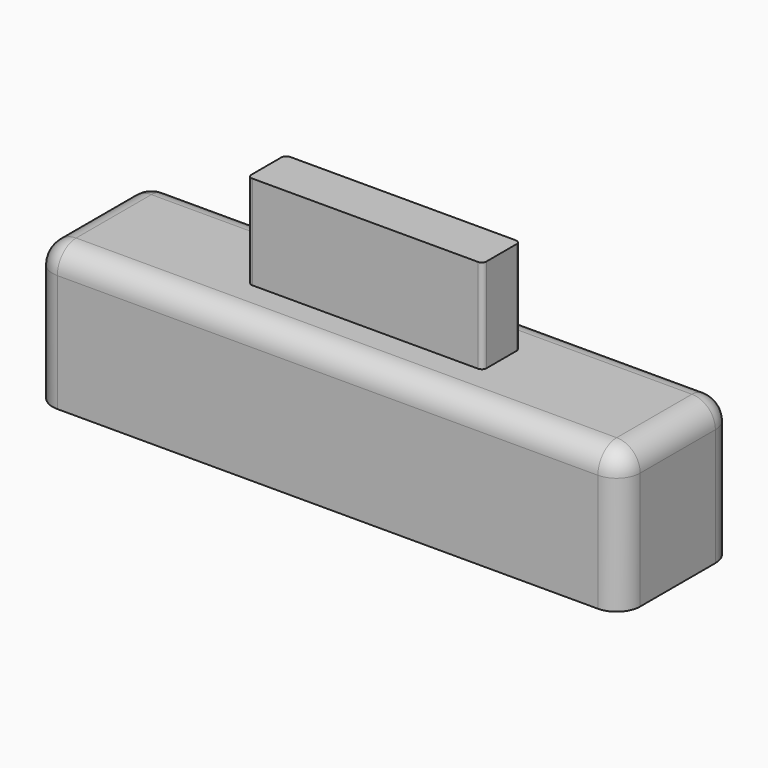
from build123d import *

# Parameters (mm, degrees)
SKETCH_W     = 10
SKETCH_H     = 2
PAD_DEPTH    = 4
SKETCH001_W  = 25
SKETCH001_H  = 6
PAD001_DEPTH = 6
FILLET_R     = 1
FILLET001_R  = 0.2


with BuildPart() as part:
    # Sketch → Pad (new body)
    with BuildSketch(Plane.XY):
        with Locations((5, 1)):
            Rectangle(SKETCH_W, SKETCH_H)
    extrude(amount=PAD_DEPTH)

    # Sketch001 → Pad001 (join)
    with BuildSketch(Plane.XY):
        with Locations((5, 1)):
            Rectangle(SKETCH001_W, SKETCH001_H)
    extrude(amount=-PAD001_DEPTH)

    # Fillet
    fillet_edges = [part.edges().sort_by_distance(p)[0] for p in [
        (-7.5, -2, -3),
        (-7.5, 4, -3),
        (-7.5, 1, 0),
        (5, -2, 0),
        (17.5, -2, -3),
        (17.5, 1, 0),
        (5, 4, 0),
        (17.5, 4, -3),
    ]]
    fillet(fillet_edges, radius=FILLET_R)

    # Fillet001
    fillet001_edges = [part.edges().sort_by_distance(p)[0] for p in [
        (10, 0, 2),
        (10, 2, 2),
        (0, 0, 2),
        (0, 2, 2),
    ]]
    fillet(fillet001_edges, radius=FILLET001_R)


solid = part.part
